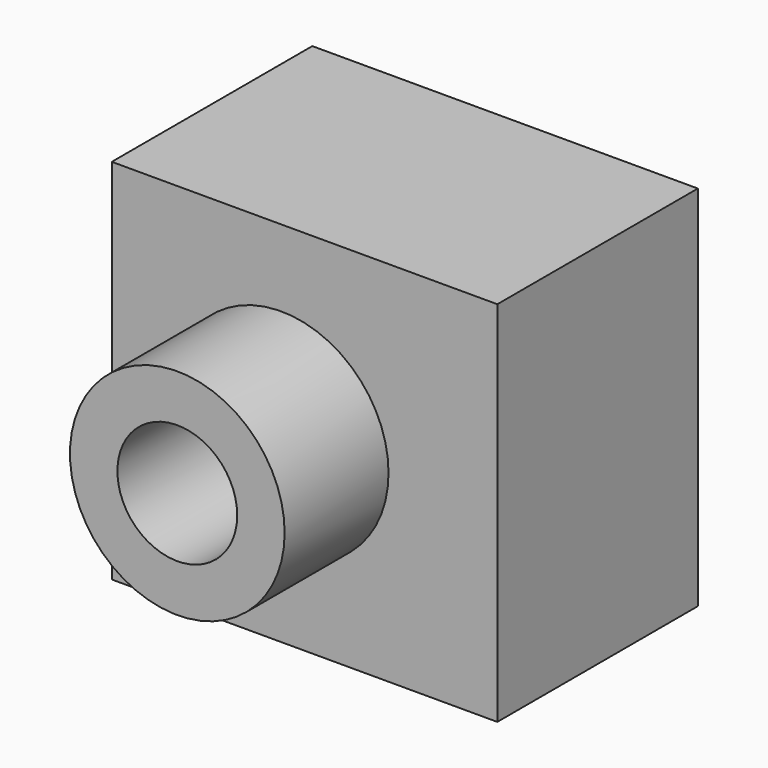
from build123d import *

# Parameters (mm, degrees)
F0_W     = 75.412262
F0_H     = 71.924368
F0_R     = 20.995672
F1_DEPTH = 49.022
F0_R_2   = 11.714124
F2_DEPTH = 49.023
F3_DEPTH = 25.4


with BuildPart() as f1:
    # F0 (on Front) → F1 (new body)
    with BuildSketch(Plane.XZ):
        with Locations((-14.711099, -18.100872)):
            Rectangle(F0_W, F0_H)
        with Locations((-19.281544, -18.100872)):
            Circle(F0_R, mode=Mode.SUBTRACT)
    extrude(amount=-F1_DEPTH)

    # F0 (on Front) → F2 (cut, through all)
    with BuildSketch(Plane.XZ):
        with Locations((-19.281544, -18.100872)):
            Circle(F0_R_2)
    extrude(amount=-F2_DEPTH, mode=Mode.SUBTRACT)


with BuildPart() as f3:
    # F0 (on Front) → F3 (new body)
    with BuildSketch(Plane.XZ):
        with Locations((-19.281544, -18.100872)):
            Circle(F0_R)
        with Locations((-19.281544, -18.100872)):
            Circle(F0_R_2, mode=Mode.SUBTRACT)
    extrude(amount=F3_DEPTH)


solid = Compound([f1.part, f3.part])
